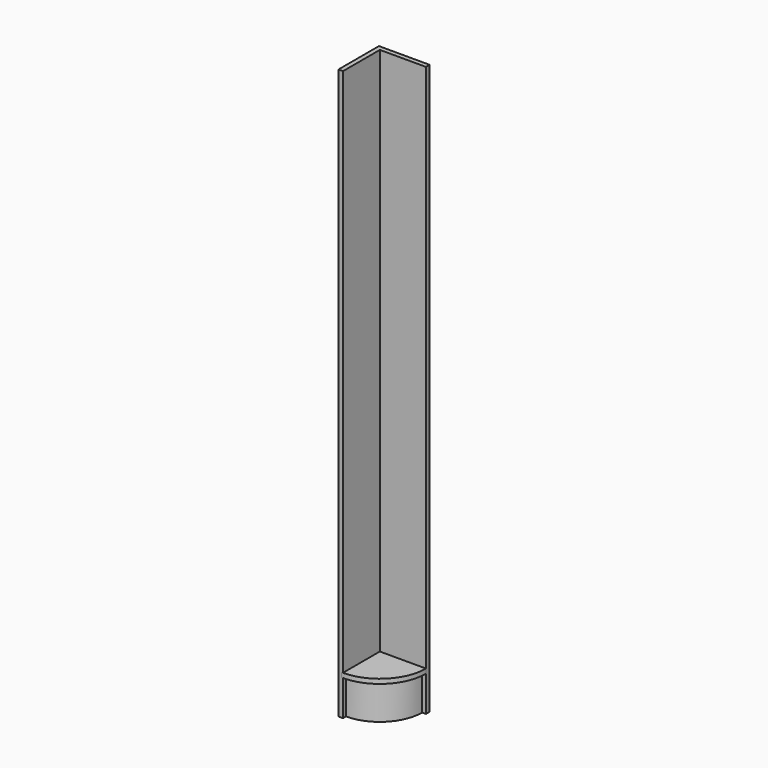
from build123d import *

# Parameters (mm, degrees)
F1_DEPTH = 2110
F3_DEPTH = 18
F5_DEPTH = 140


with BuildPart() as f1:
    # F0 (on Top) → F1 (new body)
    with BuildSketch(Plane.XY):
        Polygon((-318.834358, 154.102758), (-518.834358, 154.102758), (-518.834358, -45.897242), (-500.834358, -45.897242), (-500.834358, 136.102758), (-336.834358, 136.102758), (-318.834358, 136.102758), align=None)
    extrude(amount=F1_DEPTH)

    # F2 (on Top) → F3 (join)
    with BuildSketch(Plane.XY):
        with BuildLine():
            Line((-318.834358, 154.102758), (-518.834358, 154.102758))
            Line((-518.834358, 154.102758), (-518.834358, -45.897242))
            Line((-518.834358, -45.897242), (-506.854117, -45.897242))
            ThreePointArc((-506.854117, -45.897242), (-374.280698, 5.263707), (-318.834358, 136.102758))
            Line((-318.834358, 136.102758), (-318.834358, 154.102758))
        make_face()
    extrude(amount=F3_DEPTH)

    # F4 (on Top) → F5 (join)
    with BuildSketch(Plane.XY):
        with BuildLine():
            Line((-318.834358, 154.102758), (-518.834358, 154.102758))
            Line((-518.834358, 154.102758), (-518.834358, -45.897242))
            Line((-518.834358, -45.897242), (-500.834358, -45.897242))
            Line((-500.834358, -45.897242), (-500.834358, -30.897242))
            ThreePointArc((-500.834358, -30.897242), (-382.747526, 18.015926), (-333.834358, 136.102758))
            Line((-333.834358, 136.102758), (-318.834358, 136.102758))
            Line((-318.834358, 136.102758), (-318.834358, 154.102758))
        make_face()
    extrude(amount=-F5_DEPTH)


solid = f1.part
